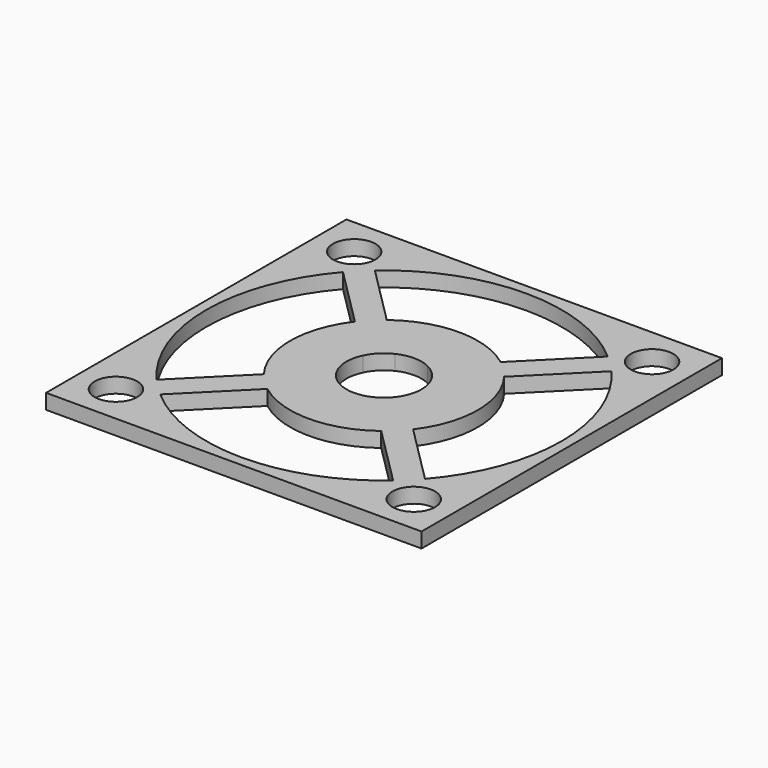
from build123d import *

# Parameters (mm, degrees)
F0_W     = 30
F0_H     = 30
F0_R     = 1.7
F1_DEPTH = 1.2


with BuildPart() as f1:
    # F0 (on Top) → F1 (new body)
    with BuildSketch(Plane.XY):
        Rectangle(F0_W, F0_H)
        with Locations((-11.9, -11.9)):
            Circle(F0_R, mode=Mode.SUBTRACT)
        with BuildLine():
            Line((-5.963056, -4.548842), (-10.723094, -9.30888))
            ThreePointArc((-10.723094, -9.30888), (-14.2, 0), (-10.723094, 9.30888))
            Line((-10.723094, 9.30888), (-5.963056, 4.548842))
            ThreePointArc((-5.963056, 4.548842), (-7.5, 0), (-5.963056, -4.548842))
        make_face(mode=Mode.SUBTRACT)
        with BuildLine():
            ThreePointArc((9.30888, -10.723094), (0, -14.2), (-9.30888, -10.723094))
            Line((-9.30888, -10.723094), (-4.548842, -5.963056))
            ThreePointArc((-4.548842, -5.963056), (0, -7.5), (4.548842, -5.963056))
            Line((4.548842, -5.963056), (9.30888, -10.723094))
        make_face(mode=Mode.SUBTRACT)
        with Locations((11.9, -11.9)):
            Circle(F0_R, mode=Mode.SUBTRACT)
        with BuildLine():
            ThreePointArc((10.723094, 9.30888), (14.2, 0), (10.723094, -9.30888))
            Line((10.723094, -9.30888), (5.963056, -4.548842))
            ThreePointArc((5.963056, -4.548842), (7.5, 0), (5.963056, 4.548842))
            Line((5.963056, 4.548842), (10.723094, 9.30888))
        make_face(mode=Mode.SUBTRACT)
        with Locations((-11.9, 11.9)):
            Circle(F0_R, mode=Mode.SUBTRACT)
        with BuildLine():
            ThreePointArc((1.292893, 2.707107), (2.12132, 2.12132), (2.707107, 1.292893))
            ThreePointArc((2.707107, 1.292893), (2.925861, 0.662827), (3, 0))
            ThreePointArc((3, 0), (2.925861, -0.662827), (2.707107, -1.292893))
            ThreePointArc((2.707107, -1.292893), (2.12132, -2.12132), (1.292893, -2.707107))
            ThreePointArc((1.292893, -2.707107), (0, -3), (-1.292893, -2.707107))
            ThreePointArc((-1.292893, -2.707107), (-2.12132, -2.12132), (-2.707107, -1.292893))
            ThreePointArc((-2.707107, -1.292893), (-3, 0), (-2.707107, 1.292893))
            ThreePointArc((-2.707107, 1.292893), (-2.12132, 2.12132), (-1.292893, 2.707107))
            ThreePointArc((-1.292893, 2.707107), (0, 3), (1.292893, 2.707107))
        make_face(mode=Mode.SUBTRACT)
        with BuildLine():
            ThreePointArc((4.548842, 5.963056), (0, 7.5), (-4.548842, 5.963056))
            Line((-4.548842, 5.963056), (-9.30888, 10.723094))
            ThreePointArc((-9.30888, 10.723094), (0, 14.2), (9.30888, 10.723094))
            Line((9.30888, 10.723094), (4.548842, 5.963056))
        make_face(mode=Mode.SUBTRACT)
        with Locations((11.9, 11.9)):
            Circle(F0_R, mode=Mode.SUBTRACT)
    extrude(amount=F1_DEPTH)


solid = f1.part
